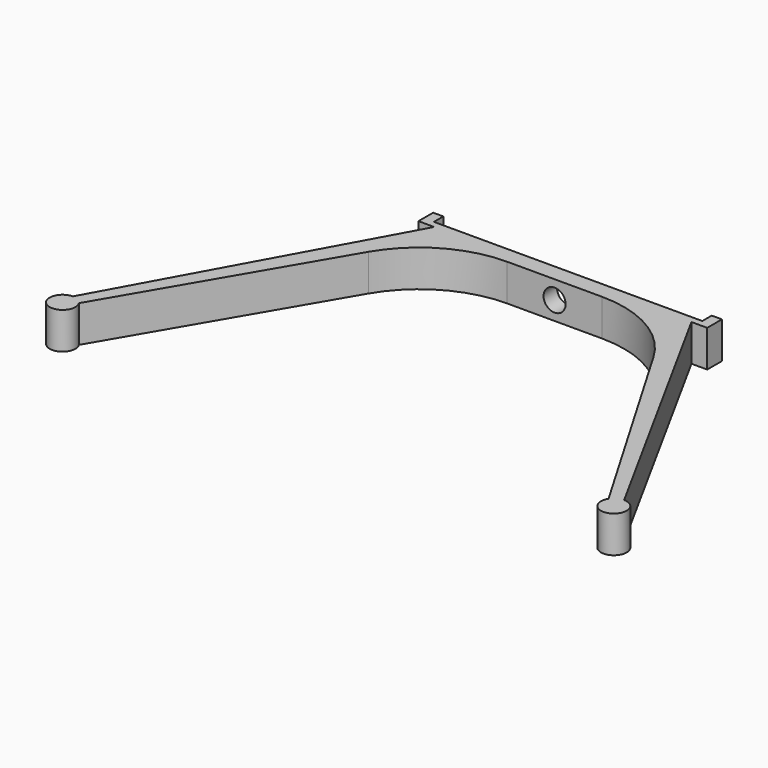
from build123d import *

# Parameters (mm, degrees)
F1_DEPTH = 10
F2_R     = 30
F3_W     = 78.57015
F3_H     = 10
F4_DEPTH = 5
F5_W     = 73.030218
F5_H     = 10
F6_DEPTH = 3.2
F7_R     = 3
F8_DEPTH = 7.801


with BuildPart() as f1:
    # F0 (on Top) → F1 (new body)
    with BuildSketch(Plane.XY):
        with BuildLine():
            Line((-35, 38.9), (-75, -34))
            ThreePointArc((-75, -34), (-76.683645, -40.568443), (-72.047904, -35.619806))
            Line((-72.047904, -35.619806), (-30.092474, 36.1))
            Line((-30.092474, 36.1), (30.092474, 36.1))
            Line((30.092474, 36.1), (72.047904, -35.619806))
            ThreePointArc((72.047904, -35.619806), (76.683645, -40.568443), (75, -34))
            Line((75, -34), (35, 38.9))
            Line((35, 38.9), (-35, 38.9))
        make_face()
    extrude(amount=F1_DEPTH)

    # F2
    f2_edges = [f1.edges().sort_by_distance(p)[0] for p in [
        (-30.092474, 36.1, 5),
        (30.092474, 36.1, 5),
    ]]
    fillet(f2_edges, radius=F2_R)

    # F3 (on face) → F4 (join)
    with BuildSketch(Plane(origin=(0, 38.9, 0), x_dir=(-1, 0, 0), z_dir=(0, 1, 0))):
        with Locations((0, 5)):
            Rectangle(F3_W, F3_H)
    extrude(amount=F4_DEPTH)

    # F5 (on face) → F6 (cut)
    with BuildSketch(Plane(origin=(0, 43.9, 0), x_dir=(-1, 0, 0), z_dir=(0, 1, 0))):
        with Locations((0, 5)):
            Rectangle(F5_W, F5_H)
    extrude(amount=-F6_DEPTH, mode=Mode.SUBTRACT)

    # F7 (on face) → F8 (cut, through all)
    with BuildSketch(Plane.XZ.offset(-36.1)):
        with Locations((0, 5)):
            Circle(F7_R)
    extrude(amount=-F8_DEPTH, mode=Mode.SUBTRACT)


solid = f1.part
